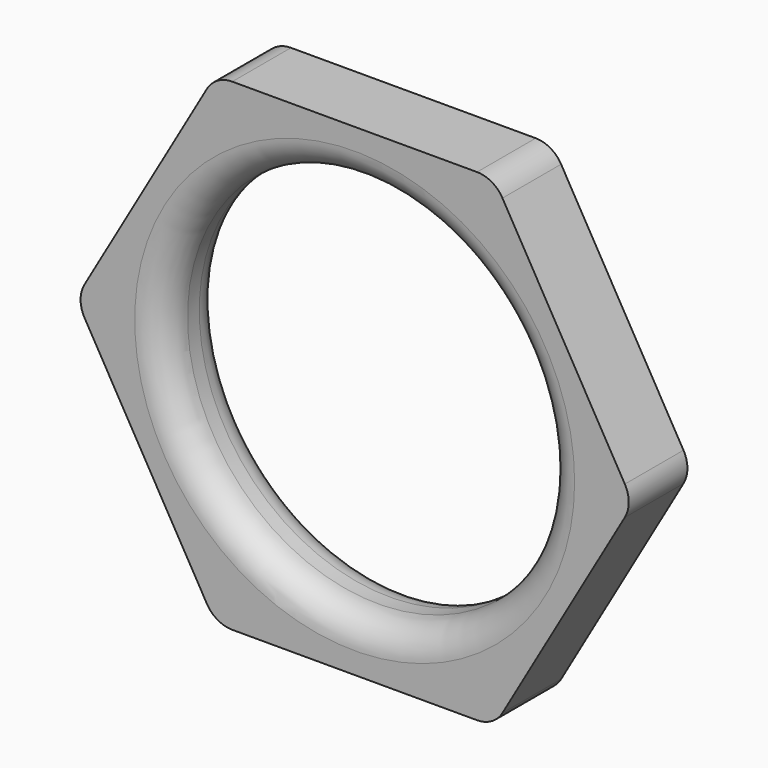
from build123d import *

# Parameters (mm, degrees)
F0_R     = 8.255
F2_DEPTH = 3.175
F1_R     = 1.27


with BuildPart() as f2:
    # F0 (on Front) → F2 (new body)
    with BuildSketch(Plane.XZ):
        Polygon((-6.0325, 10.448596), (-12.065, 0), (-6.0325, -10.448596), (6.0325, -10.448596), (12.065, 0), (6.0325, 10.448596), align=None)
        Circle(F0_R, mode=Mode.SUBTRACT)
    extrude(amount=F2_DEPTH)

    # F1
    f1_edges = [f2.edges().sort_by_distance(p)[0] for p in [
        (-8.255, -3.175, 0),
        (-8.255, 0, 0),
        (6.0325, -1.5875, -10.448596),
        (-6.0325, -1.5875, -10.448596),
        (-12.065, -1.5875, 0),
        (12.065, -1.5875, 0),
        (6.0325, -1.5875, 10.448596),
        (-6.0325, -1.5875, 10.448596),
    ]]
    fillet(f1_edges, radius=F1_R)


solid = f2.part
